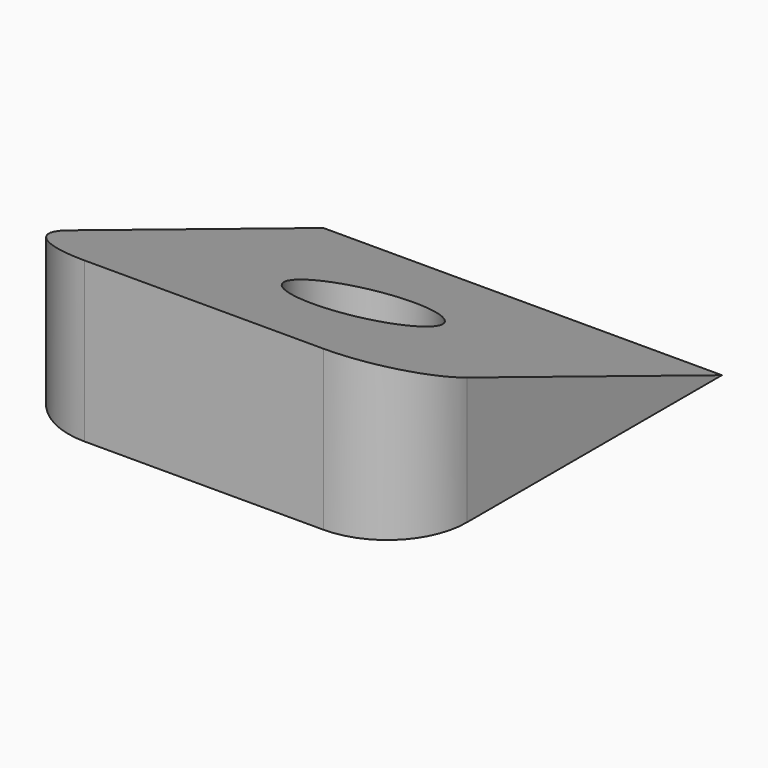
from build123d import *

# Parameters (mm, degrees)
F0_W     = 25
F0_H     = 25
F1_DEPTH = 10
F3_DEPTH = 25
F5_D     = 8
F5_DEPTH = 30
F6_R     = 5


with BuildPart() as f1:
    # F0 (on Top) → F1 (new body)
    with BuildSketch(Plane.XY):
        Rectangle(F0_W, F0_H)
    extrude(amount=F1_DEPTH)

    # F2 (on face) → F3 (cut)
    with BuildSketch(Plane.YZ.offset(12.5)):
        Polygon((12.5, 10), (-12.5, 10), (12.5, 0), align=None)
    extrude(amount=-F3_DEPTH, mode=Mode.SUBTRACT)

    # F5
    with Locations(Plane(origin=(0, 0, 0), x_dir=(1, 0, 0), z_dir=(0, 0, -1))):
        with Locations((0, 0)):
            Hole(F5_D / 2, depth=F5_DEPTH)

    # F6
    f6_edges = [f1.edges().sort_by_distance(p)[0] for p in [
        (12.5, -12.5, 5),
        (-12.5, -12.5, 5),
    ]]
    fillet(f6_edges, radius=F6_R)


solid = f1.part
